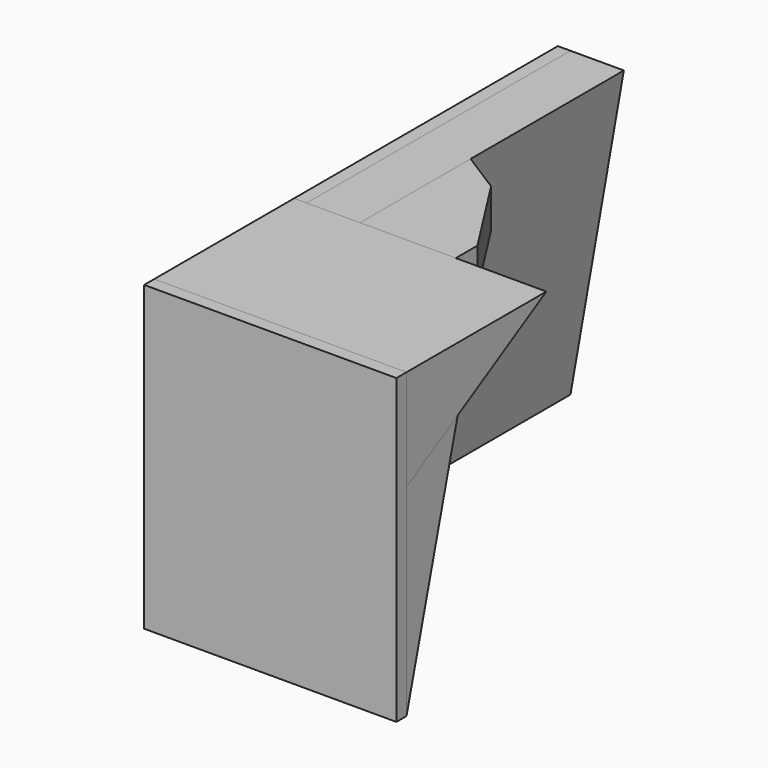
from build123d import *

# Parameters (mm, degrees)
F0_W      = 3048
F0_H      = 3657.6
F1_DEPTH  = 152.4
F2_W      = 6096
F2_H      = 3657.6
F3_DEPTH  = 152.4
F5_DEPTH  = 2895.6
F7_DEPTH  = 1524
F8_SIZE2  = 1055.858172294
F8_SIZE   = 609.6
F10_DEPTH = 6096
F12_DEPTH = 3048


with BuildPart() as f1:
    # F0 (on Front) → F1 (new body)
    with BuildSketch(Plane.XZ):
        with Locations((1524, 1828.8)):
            Rectangle(F0_W, F0_H)
    extrude(amount=F1_DEPTH)

    # F2 (on Right) → F3 (join)
    with BuildSketch(Plane.YZ):
        with Locations((3048, 1828.8)):
            Rectangle(F2_W, F2_H)
    extrude(amount=F3_DEPTH)


with BuildPart() as f5:
    # F4 (on face) → F5 (new body, through all)
    with BuildSketch(Plane.YZ.offset(3048)):
        Polygon((0, 3657.6), (0, 0), (980.0509662361, 3657.6), align=None)
    extrude(amount=-F5_DEPTH)


with BuildPart() as f7:
    # F6 (on face) → F7 (new body)
    with BuildSketch(Plane.XY.offset(3657.6)):
        Polygon((1954.3218483143, 2438.4), (1297.8002407542, 3465.7402643753), (152.4, 4188.8156), (152.4, 0), (1954.3218483143, 0), align=None)
    extrude(amount=-F7_DEPTH)

    # F8
    f8_edges = [f7.edges().sort_by_distance(p)[0] for p in [
        (1626.061045, 2952.070132, 2133.6),
    ]]
    f8_side = f7.faces().sort_by_distance((982.966719, 1787.996346, 2133.6))[0]
    chamfer(f8_edges, length=F8_SIZE, length2=F8_SIZE2, reference=f8_side)


with BuildPart() as f10:
    # F9 (on face) → F10 (new body)
    with BuildSketch(Plane(origin=(0, 6096, 0), x_dir=(-1, 0, 0), z_dir=(0, 1, 0))):
        Polygon((-797.3335646393, 3657.6), (-152.4, 0), (-152.4, 3657.6), align=None)
    extrude(amount=-F10_DEPTH)


with BuildPart() as f12:
    # F11 (on face) → F12 (new body)
    with BuildSketch(Plane.YZ.offset(3048)):
        Polygon((2111.716344588, 3657.6), (0, 3657.6), (0, 2438.4), align=None)
    extrude(amount=-F12_DEPTH)


solid = Compound([f1.part, f5.part, f7.part, f10.part, f12.part])
